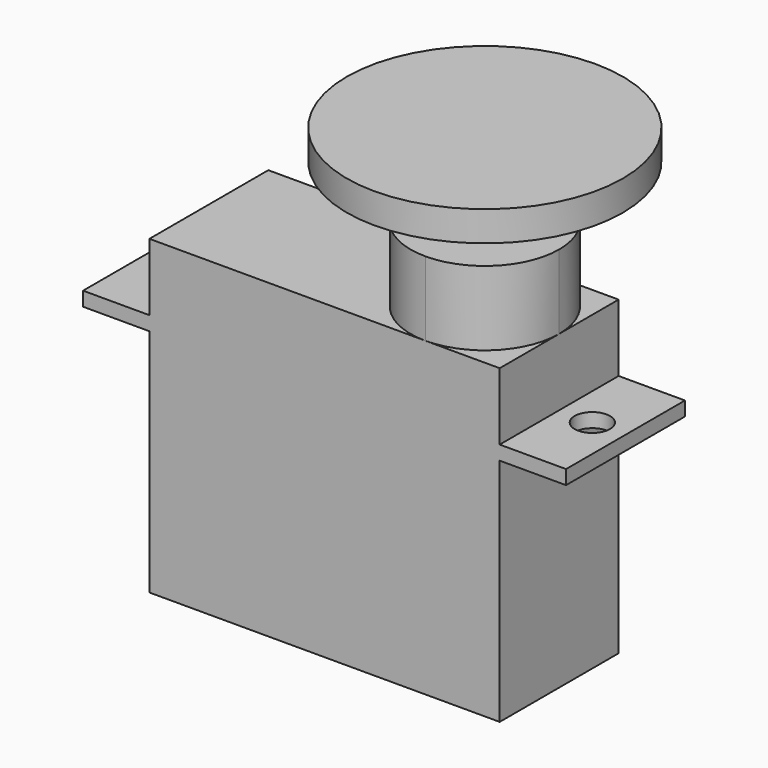
from build123d import *

# Parameters (mm, degrees)
F0_R          = 1.8
F1_DEPTH      = 13
F1_DEPTH_BACK = 4.6
F0_W          = 3.75
F0_H          = 8.4
F0_R_2        = 1
F2_DEPTH      = 0.8
F3_DEPTH      = 8.8
F4_DEPTH      = 11.8
F5_R          = 2.75
F5_R_2        = 1.8
F6_DEPTH      = 2.5
F5_R_3        = 7.8
F7_DEPTH      = 1.7


with BuildPart() as f1:
    # F0 (on Top) → F1 (new body, two sides)
    with BuildSketch(Plane.XY) as f1_sk:
        with BuildLine():
            Line((0, 4.2), (-15.6, 4.2))
            Line((-15.6, 4.2), (-15.6, -4.2))
            Line((-15.6, -4.2), (0, -4.2))
            ThreePointArc((0, -4.2), (-4.2, 0), (0, 4.2))
        make_face()
        with BuildLine():
            ThreePointArc((4.2, 0), (2.969848481, 2.969848481), (0, 4.2))
            ThreePointArc((0, 4.2), (-4.2, 0), (0, -4.2))
            ThreePointArc((0, -4.2), (2.969848481, -2.969848481), (4.2, 0))
        make_face()
        Circle(F0_R, mode=Mode.SUBTRACT)
        Circle(F0_R)
        with BuildLine():
            Line((4.2, 4.2), (0, 4.2))
            ThreePointArc((0, 4.2), (2.969848481, 2.969848481), (4.2, 0))
            Line((4.2, 0), (4.2, 4.2))
        make_face()
        with BuildLine():
            Line((4.2, -4.2), (4.2, 0))
            ThreePointArc((4.2, 0), (2.969848481, -2.969848481), (0, -4.2))
            Line((0, -4.2), (4.2, -4.2))
        make_face()
    extrude(amount=-F1_DEPTH)
    extrude(f1_sk.sketch, amount=F1_DEPTH_BACK)

    # F0 (on Top) → F2 (join)
    with BuildSketch(Plane.XY):
        with Locations((-17.475, 0)):
            Rectangle(F0_W, F0_H)
        with Locations((-17.475, 0)):
            Circle(F0_R_2, mode=Mode.SUBTRACT)
        Polygon((7.95, 4.2), (4.2, 4.2), (4.2, 0), (4.2, -4.2), (7.95, -4.2), align=None)
        with Locations((6.075, 0)):
            Circle(F0_R_2, mode=Mode.SUBTRACT)
    extrude(amount=F2_DEPTH)

    # F0 (on Top) → F3 (join)
    with BuildSketch(Plane.XY):
        with BuildLine():
            ThreePointArc((4.2, 0), (2.969848481, 2.969848481), (0, 4.2))
            ThreePointArc((0, 4.2), (-4.2, 0), (0, -4.2))
            ThreePointArc((0, -4.2), (2.969848481, -2.969848481), (4.2, 0))
        make_face()
        Circle(F0_R, mode=Mode.SUBTRACT)
        Circle(F0_R)
    extrude(amount=F3_DEPTH)

    # F0 (on Top) → F4 (join)
    with BuildSketch(Plane.XY):
        Circle(F0_R)
    extrude(amount=F4_DEPTH)


with BuildPart() as f6:
    # F5 (on face) → F6 (new body)
    with BuildSketch(Plane.XY.offset(11.8)):
        Circle(F5_R)
        Circle(F5_R_2, mode=Mode.SUBTRACT)
    extrude(amount=-F6_DEPTH)

    # F5 (on face) → F7 (join)
    with BuildSketch(Plane.XY.offset(11.8)):
        Circle(F5_R_3)
        Circle(F5_R, mode=Mode.SUBTRACT)
        Circle(F5_R)
        Circle(F5_R_2, mode=Mode.SUBTRACT)
        Circle(F5_R_2)
    extrude(amount=F7_DEPTH)


solid = Compound([f1.part, f6.part])
